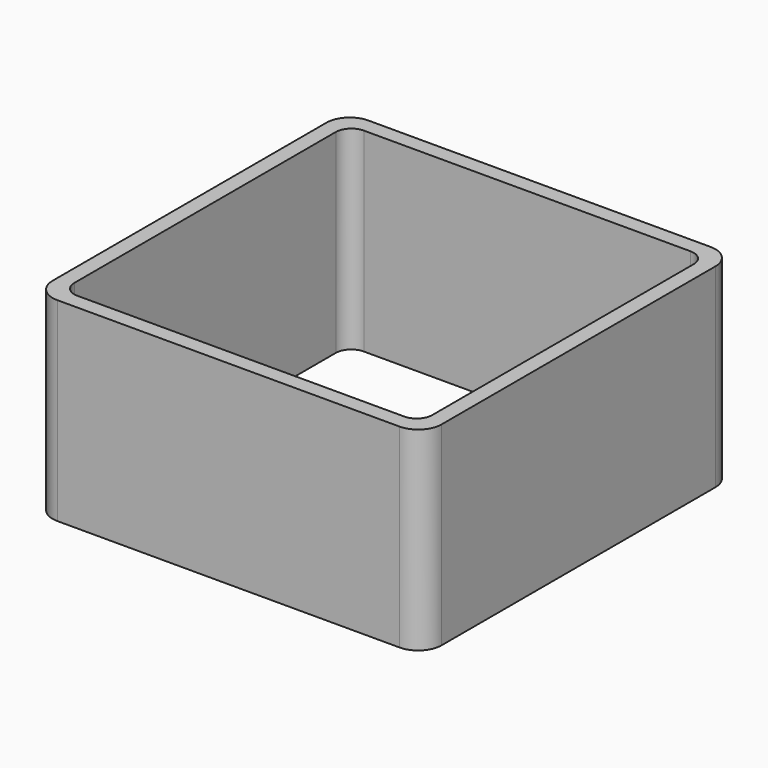
from build123d import *

# Parameters (mm, degrees)
EXTRUDE_DEPTH = 50


with BuildPart() as part:
    # Sketch → Extrude (new body)
    with BuildSketch(Plane.XY):
        with BuildLine():
            Line((-44, 50), (44, 50))
            ThreePointArc((50, 44), (48.242641, 48.242641), (44, 50))
            Line((50, 44), (50, -44))
            ThreePointArc((44, -50), (48.242641, -48.242641), (50, -44))
            Line((44, -50), (-44, -50))
            ThreePointArc((-50, -44), (-48.242641, -48.242641), (-44, -50))
            Line((-50, -44), (-50, 44))
            ThreePointArc((-44, 50), (-48.242641, 48.242641), (-50, 44))
        make_face()
        with BuildLine():
            Line((-42, 46), (42, 46))
            ThreePointArc((46, 42), (44.828427, 44.828427), (42, 46))
            Line((46, 42), (46, -42))
            ThreePointArc((42, -46), (44.828427, -44.828427), (46, -42))
            Line((42, -46), (-42, -46))
            ThreePointArc((-46, -42), (-44.828427, -44.828427), (-42, -46))
            Line((-46, -42), (-46, 42))
            ThreePointArc((-42, 46), (-44.828427, 44.828427), (-46, 42))
        make_face(mode=Mode.SUBTRACT)
    extrude(amount=EXTRUDE_DEPTH)


solid = part.part
